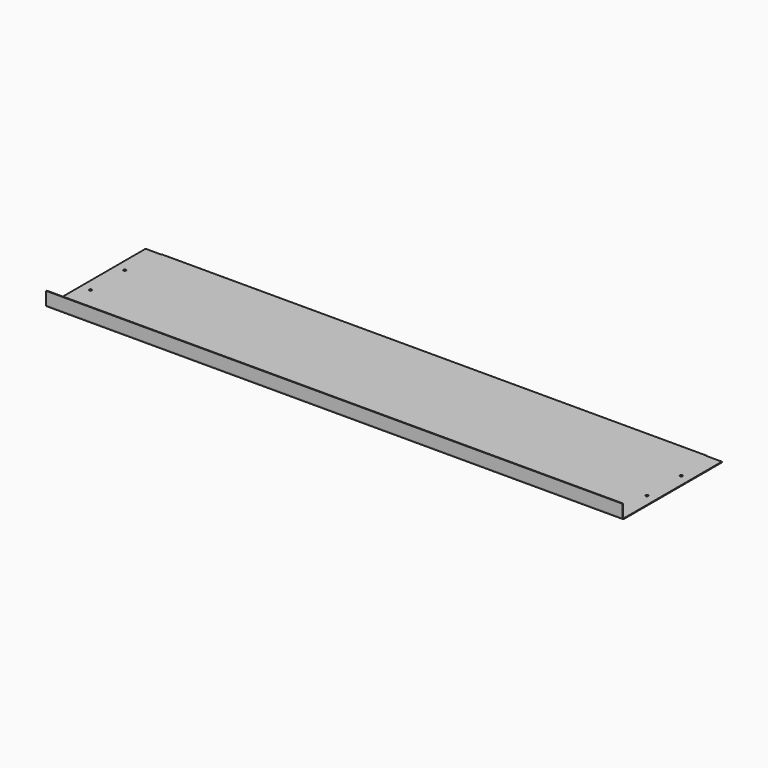
from build123d import *

# Parameters (mm, degrees)
F1_DEPTH = 670
F2_R     = 4
F3_R     = 2.4
F4_W     = 37
F4_H     = 35.4
F5_DEPTH = 4
F6_R     = 3
F7_DEPTH = 25


with BuildPart() as f1:
    # F0 (on Right) → F1 (new body, symmetric)
    with BuildSketch(Plane.YZ):
        Polygon((-146.6, 0), (145, 0), (145, -31.4), (146.6, -31.4), (146.6, 1.6), (-145, 1.6), (-145, 33), (-146.6, 33), align=None)
    extrude(amount=F1_DEPTH, both=True)

    # F2
    f2_edges = [f1.edges().sort_by_distance(p)[0] for p in [
        (0, -146.6, 0),
        (0, 146.6, 1.6),
    ]]
    fillet(f2_edges, radius=F2_R)

    # F3
    f3_edges = [f1.edges().sort_by_distance(p)[0] for p in [
        (0, -145, 1.6),
        (0, 145, 0),
    ]]
    fillet(f3_edges, radius=F3_R)

    # F4 (on face) → F5 (cut)
    with BuildSketch(Plane(origin=(0, 146.6, 0), x_dir=(-1, 0, 0), z_dir=(0, 1, 0))):
        with Locations((-651.5, -13.7)):
            Rectangle(F4_W, F4_H)
        with Locations((651.5, -13.7)):
            Rectangle(F4_W, F4_H)
    extrude(amount=-F5_DEPTH, mode=Mode.SUBTRACT)

    # F6 (on face) → F7 (cut)
    with BuildSketch(Plane.XY.offset(1.6)):
        with Locations((-647, -46.6)):
            Circle(F6_R)
        with Locations((-647, 53.4)):
            Circle(F6_R)
        with Locations((647, 53.4)):
            Circle(F6_R)
        with Locations((647, -46.6)):
            Circle(F6_R)
    extrude(amount=-F7_DEPTH, mode=Mode.SUBTRACT)


solid = f1.part
